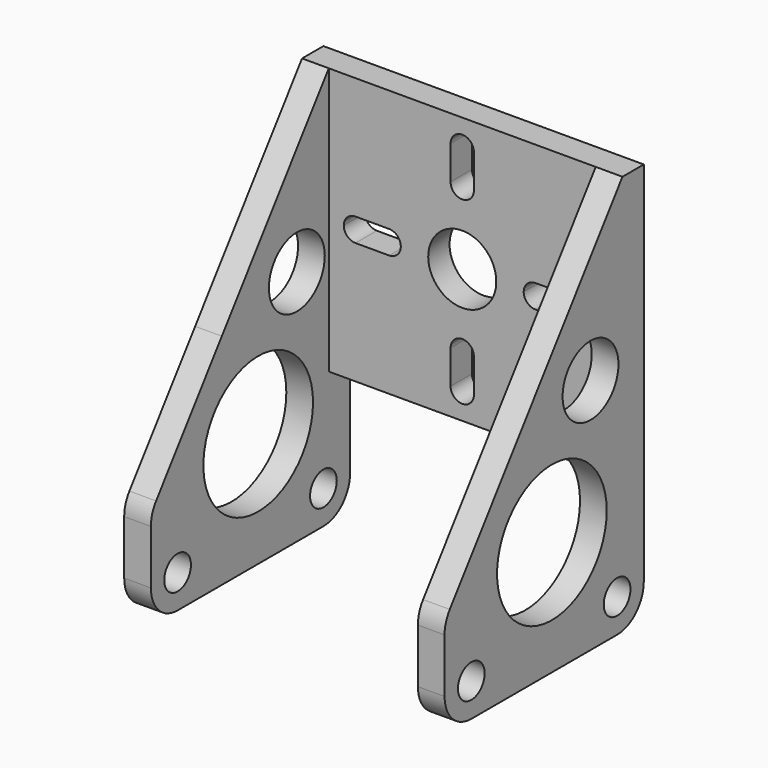
from build123d import *

# Parameters (mm, degrees)
F1_DEPTH = 4
F2_R     = 2.5
F2_R_2   = 10.2663789445
F2_R_3   = 5.2288220919
F3_DEPTH = 4
F5_R     = 2.5
F5_R_2   = 10.2663789445
F5_R_3   = 5.2288220919
F6_DEPTH = 4


with BuildPart() as f1:
    # F0 (on Front) → F1 (new body)
    with BuildSketch(Plane.XZ):
        with BuildLine():
            Line((9.2053477168, 40), (5.1, 40))
            ThreePointArc((5.1, 40), (0, 34.9), (-5.1, 40))
            Line((-5.1, 40), (-9.2053477168, 40))
            ThreePointArc((-9.2053477168, 40), (-9.7179108497, 38.7625631329), (-10.9553477168, 38.25))
            Line((-10.9553477168, 38.25), (-16, 38.25))
            ThreePointArc((-16, 38.25), (-17.2374368671, 38.7625631329), (-17.75, 40))
            Line((-17.75, 40), (-20, 40))
            Line((-20, 40), (-20, 20))
            Line((-20, 20), (20, 20))
            Line((20, 20), (20, 40))
            Line((20, 40), (17.75, 40))
            ThreePointArc((17.75, 40), (17.2374368671, 38.7625631329), (16, 38.25))
            Line((16, 38.25), (10.9553477168, 38.25))
            ThreePointArc((10.9553477168, 38.25), (9.7179108497, 38.7625631329), (9.2053477168, 40))
        make_face()
        with BuildLine():
            Line((1.75, 29.0446522832), (1.75, 24))
            ThreePointArc((1.75, 24), (0, 22.25), (-1.75, 24))
            Line((-1.75, 24), (-1.75, 29.0446522832))
            ThreePointArc((-1.75, 29.0446522832), (0, 30.7946522832), (1.75, 29.0446522832))
        make_face(mode=Mode.SUBTRACT)
        with BuildLine():
            ThreePointArc((-5.1, 40), (0, 45.1), (5.1, 40))
            Line((5.1, 40), (9.2053477168, 40))
            ThreePointArc((9.2053477168, 40), (9.7179108497, 41.2374368671), (10.9553477168, 41.75))
            Line((10.9553477168, 41.75), (16, 41.75))
            ThreePointArc((16, 41.75), (17.2374368671, 41.2374368671), (17.75, 40))
            Line((17.75, 40), (20, 40))
            Line((20, 40), (20, 60))
            Line((20, 60), (-20, 60))
            Line((-20, 60), (-20, 40))
            Line((-20, 40), (-17.75, 40))
            ThreePointArc((-17.75, 40), (-17.2374368671, 41.2374368671), (-16, 41.75))
            Line((-16, 41.75), (-10.9553477168, 41.75))
            ThreePointArc((-10.9553477168, 41.75), (-9.7179108497, 41.2374368671), (-9.2053477168, 40))
            Line((-9.2053477168, 40), (-5.1, 40))
        make_face()
        with BuildLine():
            ThreePointArc((1.75, 50.9553477168), (0, 49.2053477168), (-1.75, 50.9553477168))
            Line((-1.75, 50.9553477168), (-1.75, 56))
            ThreePointArc((-1.75, 56), (0, 57.75), (1.75, 56))
            Line((1.75, 56), (1.75, 50.9553477168))
        make_face(mode=Mode.SUBTRACT)
    extrude(amount=F1_DEPTH)

    # F2 (on face) → F3 (join)
    with BuildSketch(Plane.YZ.offset(20)):
        with BuildLine():
            Line((-32.3069637418, 0), (-5, 0))
            ThreePointArc((-5, 0), (-1.4644660941, 1.4644660941), (0, 5))
            Line((0, 5), (0, 60))
            Line((0, 60), (-4, 60))
            Line((-4, 60), (-36.3334842795, 16.0803529313))
            ThreePointArc((-36.3334842795, 16.0803529313), (-37.0573638664, 14.6760747904), (-37.3069637418, 13.1160431703))
            Line((-37.3069637418, 13.1160431703), (-37.3069637418, 5))
            ThreePointArc((-37.3069637418, 5), (-35.8424976477, 1.4644660941), (-32.3069637418, 0))
        make_face()
        with Locations((-32.3069637418, 5)):
            Circle(F2_R, mode=Mode.SUBTRACT)
        with Locations((-5, 5)):
            Circle(F2_R, mode=Mode.SUBTRACT)
        with Locations((-17.2130409628, 17.1549171209)):
            Circle(F2_R_2, mode=Mode.SUBTRACT)
        with Locations((-9.977567941, 35.5724841356)):
            Circle(F2_R_3, mode=Mode.SUBTRACT)
    extrude(amount=F3_DEPTH)

    # F5 (on 3pt) → F6 (join)
    with BuildSketch(Plane.YZ.offset(-20)):
        with BuildLine():
            Line((-32.3069637418, 0), (-5, 0))
            ThreePointArc((-5, 0), (-1.4644660941, 1.4644660941), (0, 5))
            Line((0, 5), (0, 60))
            Line((0, 60), (-4, 60))
            Line((-4, 60), (-24.0229353611, 32.8021809608))
            Line((-24.0229353611, 32.8021809608), (-36.3334842795, 16.0803529313))
            ThreePointArc((-36.3334842795, 16.0803529313), (-37.0573638664, 14.6760747904), (-37.3069637418, 13.1160431703))
            Line((-37.3069637418, 13.1160431703), (-37.3069637418, 5))
            ThreePointArc((-37.3069637418, 5), (-35.8424976477, 1.4644660941), (-32.3069637418, 0))
        make_face()
        with Locations((-32.3069637418, 5)):
            Circle(F5_R, mode=Mode.SUBTRACT)
        with Locations((-5, 5)):
            Circle(F5_R, mode=Mode.SUBTRACT)
        with Locations((-17.2130409628, 17.1549171209)):
            Circle(F5_R_2, mode=Mode.SUBTRACT)
        with Locations((-9.977567941, 35.5724841356)):
            Circle(F5_R_3, mode=Mode.SUBTRACT)
    extrude(amount=-F6_DEPTH)


solid = f1.part
